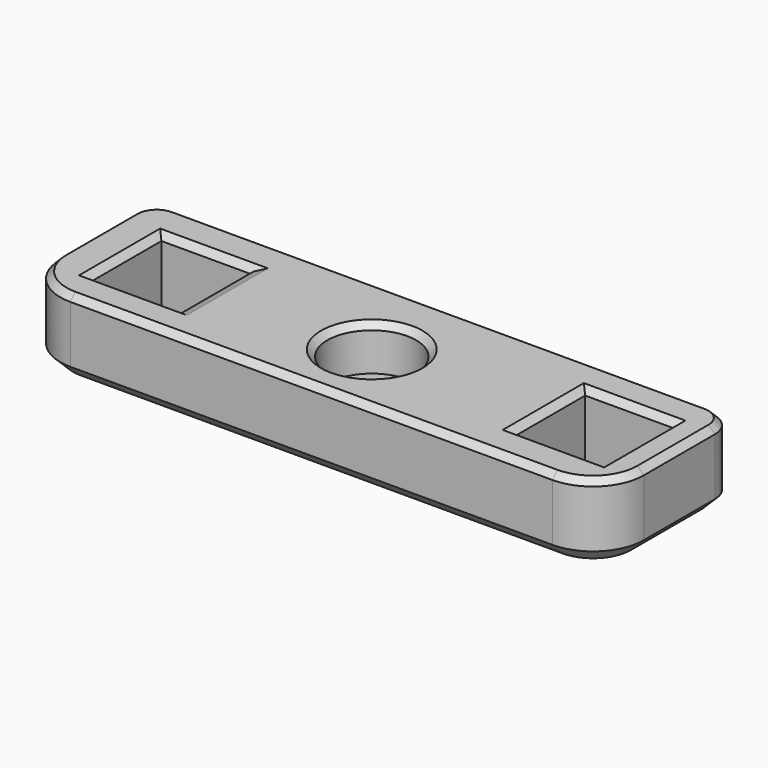
from build123d import *

# Parameters (mm, degrees)
PAD_DEPTH       = 3
CHAMFER_SIZE    = 0.5
SKETCH005_W     = 3.5
SKETCH005_H     = 3.5
POCKET_DEPTH    = 3.001
SKETCH003_R     = 1
POCKET004_DEPTH = 3.001
CHAMFER005_SIZE = 0.25
CHAMFER008_SIZE = 0.25
CHAMFER009_SIZE = 0.25
SKETCH010_R     = 1.75
POCKET005_DEPTH = 1.75
CHAMFER010_SIZE = 0.25
CHAMFER011_SIZE = 0.25


with BuildPart() as part:
    # Sketch → Pad (new body)
    with BuildSketch(Plane.XY):
        with BuildLine():
            Line((-9.543873, -3.274907), (9.456127, -3.274907))
            ThreePointArc((9.456127, -3.274907), (10.87034, -2.68912), (11.456127, -1.274907))
            Line((11.456127, -1.274907), (11.456127, 2.225093))
            ThreePointArc((11.456127, 2.225093), (11.163233, 2.9322), (10.456127, 3.225093))
            Line((-10.543873, 3.225093), (10.456127, 3.225093))
            ThreePointArc((-10.543873, 3.225093), (-11.25098, 2.9322), (-11.543873, 2.225093))
            Line((-11.543873, -1.274907), (-11.543873, 2.225093))
            ThreePointArc((-11.543873, -1.274907), (-10.958087, -2.68912), (-9.543873, -3.274907))
        make_face()
    extrude(amount=PAD_DEPTH)

    # Chamfer
    chamfer_edges = [part.edges().sort_by_distance(p)[0] for p in [
        (-0.043873, -3.274907, 0),
        (-10.958087, -2.68912, 0),
        (-10.543873, 3.225093, 1.5),
        (11.163233, 2.9322, 0),
        (11.456127, 0.475093, 0),
        (10.87034, -2.68912, 0),
    ]]
    chamfer(chamfer_edges, length=CHAMFER_SIZE)

    # Sketch005 (on DatumPlane) → Pocket (cut, through all)
    with BuildSketch(Plane.XY.offset(3)):
        with Locations((-8.14335, -0.103182)):
            Rectangle(SKETCH005_W, SKETCH005_H)
        with Locations((8.475, 0)):
            Rectangle(SKETCH005_W, SKETCH005_H)
    extrude(amount=-POCKET_DEPTH, mode=Mode.SUBTRACT)

    # Sketch003 (on DatumPlane) → Pocket004 (cut, through all)
    with BuildSketch(Plane.XY.offset(3)):
        with Locations((0, -0.324907)):
            Circle(SKETCH003_R)
    extrude(amount=-POCKET004_DEPTH, mode=Mode.SUBTRACT)

    # Chamfer005
    chamfer005_edges = [part.edges().sort_by_distance(p)[0] for p in [
        (11.456127, 0.475093, 3),
        (10.87034, -2.68912, 3),
        (-0.043873, -3.274907, 3),
        (-10.958087, -2.68912, 3),
        (-11.543873, 0.475093, 3),
        (-11.25098, 2.9322, 3),
        (-0.043873, 3.225093, 3),
        (11.163233, 2.9322, 3),
    ]]
    chamfer(chamfer005_edges, length=CHAMFER005_SIZE)

    # Chamfer008
    chamfer008_edges = [part.edges().sort_by_distance(p)[0] for p in [
        (8.475, -1.75, 0),
        (6.725, 0, 0),
        (8.475, 1.75, 0),
        (10.225, 0, 0),
        (-9.89335, -0.103182, 0),
        (-8.14335, 1.646818, 0),
        (-1, -0.324907, 0),
        (-6.39335, -0.103182, 0),
        (-8.14335, -1.853182, 0),
    ]]
    chamfer(chamfer008_edges, length=CHAMFER008_SIZE)

    # Chamfer009
    chamfer009_edges = [part.edges().sort_by_distance(p)[0] for p in [
        (6.725, 0, 3),
        (8.475, -1.75, 3),
        (10.225, 0, 3),
        (8.475, 1.75, 3),
        (-6.39335, -0.103182, 3),
        (-8.14335, -1.853182, 3),
        (-9.89335, -0.103182, 3),
        (-8.14335, 1.646818, 3),
    ]]
    chamfer(chamfer009_edges, length=CHAMFER009_SIZE)

    # Sketch010 (on Face10 of Chamfer009) → Pocket005 (cut)
    with BuildSketch(Plane.XY.offset(3)):
        with Locations((-0.025921, -0.324907)):
            Circle(SKETCH010_R)
    extrude(amount=-POCKET005_DEPTH, mode=Mode.SUBTRACT)

    # Chamfer010
    chamfer010_edges = [part.edges().sort_by_distance(p)[0] for p in [
        (-6.14335, -0.103182, 3),
    ]]
    chamfer(chamfer010_edges, length=CHAMFER010_SIZE)

    # Chamfer011
    chamfer011_edges = [part.edges().sort_by_distance(p)[0] for p in [
        (-1.775921, -0.324907, 3),
    ]]
    chamfer(chamfer011_edges, length=CHAMFER011_SIZE)


solid = part.part
